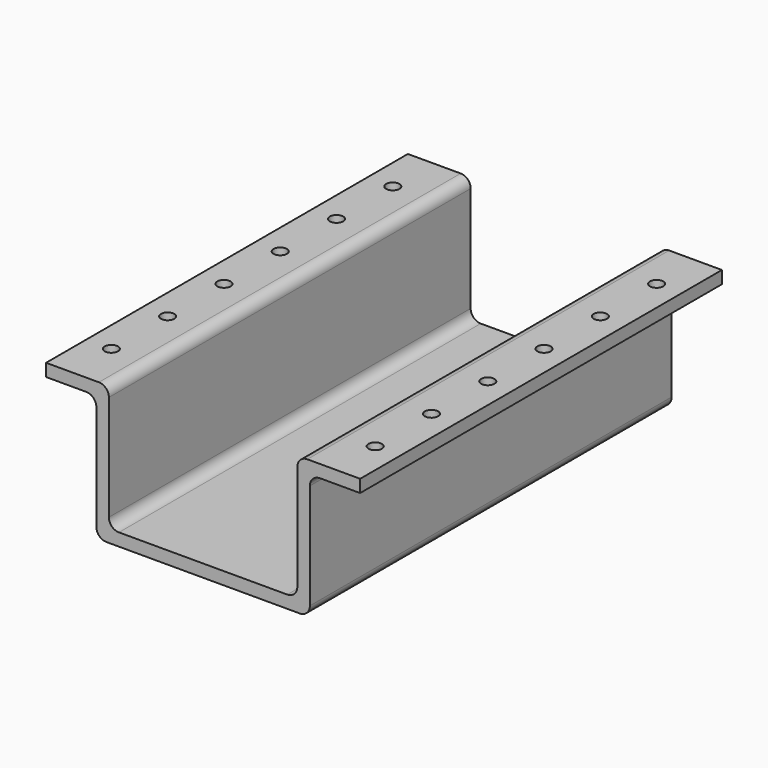
from build123d import *

# Parameters (mm, degrees)
F1_DEPTH = 228.6
F3_R     = 5.08
F6_D     = 6.7564
F7_D     = 6.7564


with BuildPart() as f1:
    # F0 (on Front) → F1 (new body)
    with BuildSketch(Plane.XZ):
        Polygon((-53.975, 63.5), (-53.975, 0), (53.975, 0), (53.975, 63.5), (79.375, 63.5), (79.375, 69.85), (47.625, 69.85), (47.625, 6.35), (-47.625, 6.35), (-47.625, 69.85), (-79.375, 69.85), (-79.375, 63.5), align=None)
    extrude(amount=-F1_DEPTH)

    # F3
    f3_edges = [f1.edges().sort_by_distance(p)[0] for p in [
        (-47.625, 114.3, 69.85),
        (-47.625, 114.3, 6.35),
        (53.975, 114.3, 0),
        (47.625, 114.3, 6.35),
        (-53.975, 114.3, 0),
        (-53.975, 114.3, 63.5),
        (53.975, 114.3, 63.5),
        (47.625, 114.3, 69.85),
    ]]
    fillet(f3_edges, radius=F3_R)

    # F6 (through all)
    with Locations(Plane.XY.offset(69.85)):
        with Locations((-66.675, 203.2), (-66.675, 167.64), (-66.675, 132.08), (-66.675, 96.52), (-66.675, 60.96), (-66.675, 25.4)):
            Hole(F6_D / 2)

    # F7 (through all)
    with Locations(Plane.XY.offset(69.85)):
        with Locations((66.675, 203.2), (66.675, 167.64), (66.675, 132.08), (66.675, 96.52), (66.675, 60.96), (66.675, 25.4)):
            Hole(F7_D / 2)


solid = f1.part
